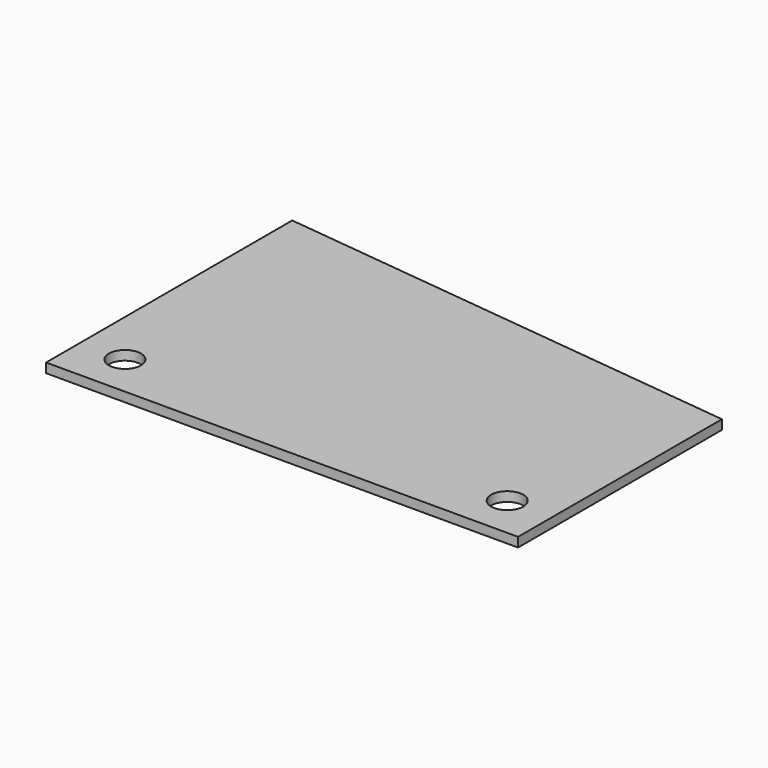
from build123d import *

# Parameters (mm, degrees)
F0_W     = 158.75
F0_H     = 65.0748
F0_R     = 5.3975
F1_DEPTH = 3.175


with BuildPart() as f1:
    # F0 (on Top) → F1 (new body)
    with BuildSketch(Plane.XY):
        with Locations((79.375, 32.5374)):
            Rectangle(F0_W, F0_H)
        with Locations((15.0876, 14.2875)):
            Circle(F0_R, mode=Mode.SUBTRACT)
        with Locations((143.6624, 14.2875)):
            Circle(F0_R, mode=Mode.SUBTRACT)
        Polygon((0, 103.4796), (0, 65.0748), (158.75, 65.0748), (158.75, 85.6996), align=None)
    extrude(amount=F1_DEPTH)


solid = f1.part
